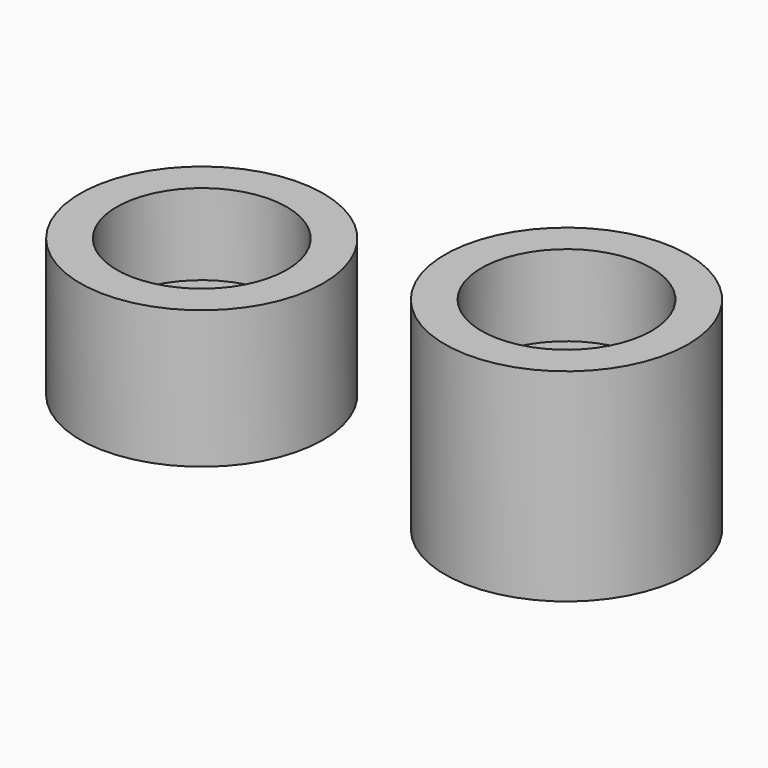
from build123d import *

# Parameters (mm, degrees)
SKETCH_R        = 3
PAD_DEPTH       = 3.4
SKETCH001_R     = 2.1
POCKET_DEPTH    = 2
SKETCH002_R     = 1.6
POCKET001_DEPTH = 1.401
SKETCH003_R     = 3
PAD001_DEPTH    = 5
SKETCH004_R     = 2.1
POCKET002_DEPTH = 2
SKETCH005_R     = 1.6
POCKET003_DEPTH = 3.001


with BuildPart() as pcb_mount:
    # Sketch → Pad (new body)
    with BuildSketch(Plane.XY):
        Circle(SKETCH_R)
    extrude(amount=PAD_DEPTH)

    # Sketch001 (on Face3 of Pad) → Pocket (cut)
    with BuildSketch(Plane.XY.offset(3.4)):
        Circle(SKETCH001_R)
    extrude(amount=-POCKET_DEPTH, mode=Mode.SUBTRACT)

    # Sketch002 (on Face5 of Pocket) → Pocket001 (cut, through all)
    with BuildSketch(Plane.XY.offset(1.4)):
        Circle(SKETCH002_R)
    extrude(amount=-POCKET001_DEPTH, mode=Mode.SUBTRACT)


with BuildPart() as column_spacer:
    # Sketch003 → Pad001 (new body)
    with BuildSketch(Plane.XY):
        Circle(SKETCH003_R)
    extrude(amount=PAD001_DEPTH)

    # Sketch004 (on Face3 of Pad001) → Pocket002 (cut)
    with BuildSketch(Plane.XY.offset(5)):
        Circle(SKETCH004_R)
    extrude(amount=-POCKET002_DEPTH, mode=Mode.SUBTRACT)

    # Sketch005 (on Face5 of Pocket002) → Pocket003 (cut, through all)
    with BuildSketch(Plane.XY.offset(3)):
        Circle(SKETCH005_R)
    extrude(amount=-POCKET003_DEPTH, mode=Mode.SUBTRACT)


with BuildPart() as column_spacer_1:
    # Body001 placement: moved
    add(column_spacer.part.moved(Location((9, 0, 0))))


solid = Compound([pcb_mount.part, column_spacer_1.part])
